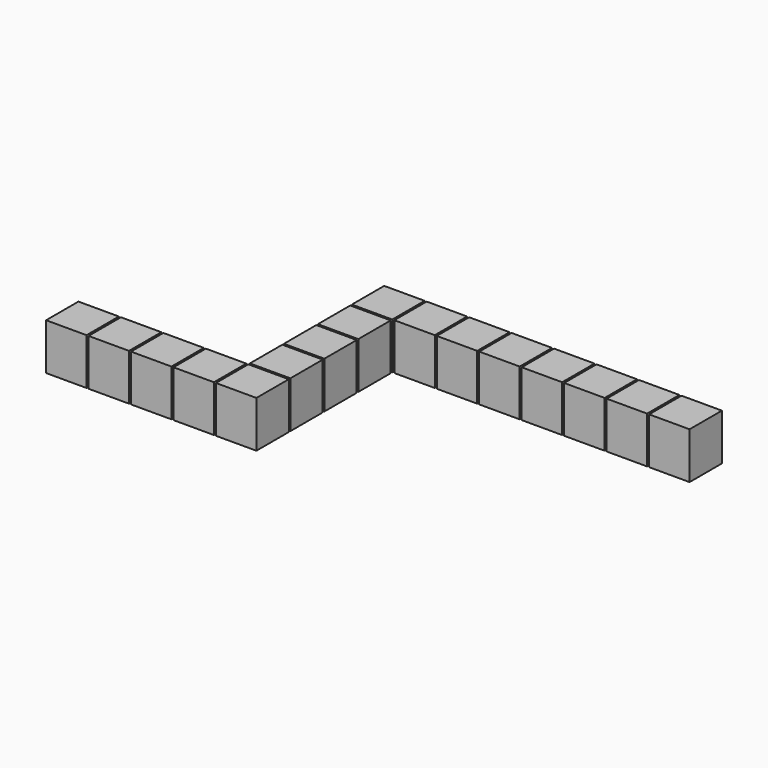
from build123d import *

# Parameters (mm, degrees)
F0_W     = 1.27
F0_H     = 22.86
F1_DEPTH = 24.13
F0_H_2   = 11.43
F0_W_2   = 22.86
F0_H_3   = 1.27
F2_DEPTH = 25.4
F3_DEPTH = 3.81
F4_SCALE = 0.5


with BuildPart() as f1:
    # F0 (on Top) → F1 (new body)
    with BuildSketch(Plane.XY):
        with Locations((26.035, 12.7)):
            Rectangle(F0_W, F0_H)
    extrude(amount=F1_DEPTH)



with BuildPart() as f1b:
    # F0 (on Top) → F1, piece 2 (new body)
    with BuildSketch(Plane.XY):
        with Locations((52.705, 12.7)):
            Rectangle(F0_W, F0_H)
    extrude(amount=F1_DEPTH)


with BuildPart() as f1c:
    # F0 (on Top) → F1, piece 3 (new body)
    with BuildSketch(Plane.XY):
        with Locations((79.375, 12.7)):
            Rectangle(F0_W, F0_H)
    extrude(amount=F1_DEPTH)


with BuildPart() as f1d:
    # F0 (on Top) → F1, piece 4 (new body)
    with BuildSketch(Plane.XY):
        with Locations((106.045, 6.985)):
            Rectangle(F0_W, F0_H_2)
        with Locations((106.045, 18.415)):
            Rectangle(F0_W, F0_H_2)
    extrude(amount=F1_DEPTH)


with BuildPart() as f1e:
    # F0 (on Top) → F1, piece 5 (new body)
    with BuildSketch(Plane.XY):
        with Locations((119.38, 26.035)):
            Rectangle(F0_W_2, F0_H_3)
    extrude(amount=F1_DEPTH)


with BuildPart() as f1f:
    # F0 (on Top) → F1, piece 6 (new body)
    with BuildSketch(Plane.XY):
        with Locations((119.38, 52.705)):
            Rectangle(F0_W_2, F0_H_3)
    extrude(amount=F1_DEPTH)


with BuildPart() as f1g:
    # F0 (on Top) → F1, piece 7 (new body)
    with BuildSketch(Plane.XY):
        with Locations((119.38, 79.375)):
            Rectangle(F0_W_2, F0_H_3)
    extrude(amount=F1_DEPTH)


with BuildPart() as f1h:
    # F0 (on Top) → F1, piece 8 (new body)
    with BuildSketch(Plane.XY):
        with Locations((119.38, 106.045)):
            Rectangle(F0_W_2, F0_H_3)
    extrude(amount=F1_DEPTH)


with BuildPart() as f1i:
    # F0 (on Top) → F1, piece 9 (new body)
    with BuildSketch(Plane.XY):
        with Locations((132.715, 119.38)):
            Rectangle(F0_W, F0_H)
    extrude(amount=F1_DEPTH)


with BuildPart() as f1j:
    # F0 (on Top) → F1, piece 10 (new body)
    with BuildSketch(Plane.XY):
        with Locations((159.385, 119.38)):
            Rectangle(F0_W, F0_H)
    extrude(amount=F1_DEPTH)


with BuildPart() as f1k:
    # F0 (on Top) → F1, piece 11 (new body)
    with BuildSketch(Plane.XY):
        with Locations((186.055, 119.38)):
            Rectangle(F0_W, F0_H)
    extrude(amount=F1_DEPTH)


with BuildPart() as f1l:
    # F0 (on Top) → F1, piece 12 (new body)
    with BuildSketch(Plane.XY):
        with Locations((212.725, 119.38)):
            Rectangle(F0_W, F0_H)
    extrude(amount=F1_DEPTH)


with BuildPart() as f1m:
    # F0 (on Top) → F1, piece 13 (new body)
    with BuildSketch(Plane.XY):
        with Locations((239.395, 119.38)):
            Rectangle(F0_W, F0_H)
    extrude(amount=F1_DEPTH)


with BuildPart() as f1n:
    # F0 (on Top) → F1, piece 14 (new body)
    with BuildSketch(Plane.XY):
        with Locations((266.065, 119.38)):
            Rectangle(F0_W, F0_H)
    extrude(amount=F1_DEPTH)


with BuildPart() as f1o:
    # F0 (on Top) → F1, piece 15 (new body)
    with BuildSketch(Plane.XY):
        with Locations((292.735, 119.38)):
            Rectangle(F0_W, F0_H)
    extrude(amount=F1_DEPTH)


with BuildPart() as f1_1:
    add(f1.part)

    add(f1b.part)  # F2 merges F1b

    add(f1c.part)  # F2 merges F1c

    add(f1d.part)  # F2 merges F1d

    add(f1e.part)  # F2 merges F1e

    add(f1f.part)  # F2 merges F1f

    add(f1g.part)  # F2 merges F1g

    add(f1h.part)  # F2 merges F1h

    add(f1i.part)  # F2 merges F1i

    add(f1j.part)  # F2 merges F1j

    add(f1k.part)  # F2 merges F1k

    add(f1l.part)  # F2 merges F1l

    add(f1m.part)  # F2 merges F1m

    add(f1n.part)  # F2 merges F1n

    add(f1o.part)  # F2 merges F1o
    # F0 (on Top) → F2 (join)
    with BuildSketch(Plane.XY):
        Polygon((0, 25.4), (0, 0), (25.4, 0), (25.4, 1.27), (25.4, 24.13), (25.4, 25.4), align=None)
        Polygon((26.67, 24.13), (26.67, 1.27), (26.67, 0), (52.07, 0), (52.07, 1.27), (52.07, 24.13), (52.07, 25.4), (26.67, 25.4), align=None)
        Polygon((53.34, 24.13), (53.34, 1.27), (53.34, 0), (78.74, 0), (78.74, 1.27), (78.74, 24.13), (78.74, 25.4), (53.34, 25.4), align=None)
        Polygon((80.01, 24.13), (80.01, 1.27), (80.01, 0), (105.41, 0), (105.41, 1.27), (105.41, 12.7), (105.41, 24.13), (105.41, 25.4), (80.01, 25.4), align=None)
        Polygon((106.68, 12.7), (106.68, 1.27), (106.68, 0), (132.08, 0), (132.08, 25.4), (130.81, 25.4), (107.95, 25.4), (106.68, 25.4), (106.68, 24.13), align=None)
        Polygon((106.68, 26.67), (107.95, 26.67), (130.81, 26.67), (132.08, 26.67), (132.08, 52.07), (130.81, 52.07), (107.95, 52.07), (106.68, 52.07), align=None)
        Polygon((106.68, 53.34), (107.95, 53.34), (130.81, 53.34), (132.08, 53.34), (132.08, 78.74), (130.81, 78.74), (107.95, 78.74), (106.68, 78.74), align=None)
        Polygon((106.68, 80.01), (107.95, 80.01), (130.81, 80.01), (132.08, 80.01), (132.08, 105.41), (130.81, 105.41), (107.95, 105.41), (106.68, 105.41), align=None)
        Polygon((106.68, 106.68), (107.95, 106.68), (130.81, 106.68), (132.08, 106.68), (132.08, 107.95), (132.08, 130.81), (132.08, 132.08), (106.68, 132.08), align=None)
        Polygon((133.35, 130.81), (133.35, 107.95), (133.35, 106.68), (158.75, 106.68), (158.75, 107.95), (158.75, 130.81), (158.75, 132.08), (133.35, 132.08), align=None)
        Polygon((160.02, 130.81), (160.02, 107.95), (160.02, 106.68), (185.42, 106.68), (185.42, 107.95), (185.42, 130.81), (185.42, 132.08), (160.02, 132.08), align=None)
        Polygon((186.69, 130.81), (186.69, 107.95), (186.69, 106.68), (212.09, 106.68), (212.09, 107.95), (212.09, 130.81), (212.09, 132.08), (186.69, 132.08), align=None)
        Polygon((213.36, 130.81), (213.36, 107.95), (213.36, 106.68), (238.76, 106.68), (238.76, 107.95), (238.76, 130.81), (238.76, 132.08), (213.36, 132.08), align=None)
        Polygon((240.03, 130.81), (240.03, 107.95), (240.03, 106.68), (265.43, 106.68), (265.43, 107.95), (265.43, 130.81), (265.43, 132.08), (240.03, 132.08), align=None)
        Polygon((266.7, 130.81), (266.7, 107.95), (266.7, 106.68), (292.1, 106.68), (292.1, 107.95), (292.1, 130.81), (292.1, 132.08), (266.7, 132.08), align=None)
        Polygon((293.37, 130.81), (293.37, 107.95), (293.37, 106.68), (318.77, 106.68), (318.77, 107.95), (318.77, 130.81), (318.77, 132.08), (293.37, 132.08), align=None)
    extrude(amount=F2_DEPTH)

    # F0 (on Top) → F3 (join)
    with BuildSketch(Plane.XY):
        Polygon((53.34, 24.13), (53.34, 1.27), (53.34, 0), (78.74, 0), (78.74, 1.27), (78.74, 24.13), (78.74, 25.4), (53.34, 25.4), align=None)
        Polygon((213.36, 130.81), (213.36, 107.95), (213.36, 106.68), (238.76, 106.68), (238.76, 107.95), (238.76, 130.81), (238.76, 132.08), (213.36, 132.08), align=None)
        Polygon((106.68, 106.68), (107.95, 106.68), (130.81, 106.68), (132.08, 106.68), (132.08, 107.95), (132.08, 130.81), (132.08, 132.08), (106.68, 132.08), align=None)
        Polygon((0, 25.4), (0, 0), (25.4, 0), (25.4, 1.27), (25.4, 24.13), (25.4, 25.4), align=None)
        Polygon((293.37, 130.81), (293.37, 107.95), (293.37, 106.68), (318.77, 106.68), (318.77, 107.95), (318.77, 130.81), (318.77, 132.08), (293.37, 132.08), align=None)
        Polygon((106.68, 80.01), (107.95, 80.01), (130.81, 80.01), (132.08, 80.01), (132.08, 105.41), (130.81, 105.41), (107.95, 105.41), (106.68, 105.41), align=None)
        Polygon((106.68, 53.34), (107.95, 53.34), (130.81, 53.34), (132.08, 53.34), (132.08, 78.74), (130.81, 78.74), (107.95, 78.74), (106.68, 78.74), align=None)
        Polygon((106.68, 26.67), (107.95, 26.67), (130.81, 26.67), (132.08, 26.67), (132.08, 52.07), (130.81, 52.07), (107.95, 52.07), (106.68, 52.07), align=None)
        Polygon((26.67, 24.13), (26.67, 1.27), (26.67, 0), (52.07, 0), (52.07, 1.27), (52.07, 24.13), (52.07, 25.4), (26.67, 25.4), align=None)
        Polygon((160.02, 130.81), (160.02, 107.95), (160.02, 106.68), (185.42, 106.68), (185.42, 107.95), (185.42, 130.81), (185.42, 132.08), (160.02, 132.08), align=None)
        Polygon((186.69, 130.81), (186.69, 107.95), (186.69, 106.68), (212.09, 106.68), (212.09, 107.95), (212.09, 130.81), (212.09, 132.08), (186.69, 132.08), align=None)
        Polygon((240.03, 130.81), (240.03, 107.95), (240.03, 106.68), (265.43, 106.68), (265.43, 107.95), (265.43, 130.81), (265.43, 132.08), (240.03, 132.08), align=None)
        Polygon((106.68, 12.7), (106.68, 1.27), (106.68, 0), (132.08, 0), (132.08, 25.4), (130.81, 25.4), (107.95, 25.4), (106.68, 25.4), (106.68, 24.13), align=None)
        Polygon((133.35, 130.81), (133.35, 107.95), (133.35, 106.68), (158.75, 106.68), (158.75, 107.95), (158.75, 130.81), (158.75, 132.08), (133.35, 132.08), align=None)
        Polygon((80.01, 24.13), (80.01, 1.27), (80.01, 0), (105.41, 0), (105.41, 1.27), (105.41, 12.7), (105.41, 24.13), (105.41, 25.4), (80.01, 25.4), align=None)
        Polygon((266.7, 130.81), (266.7, 107.95), (266.7, 106.68), (292.1, 106.68), (292.1, 107.95), (292.1, 130.81), (292.1, 132.08), (266.7, 132.08), align=None)
        with Locations((132.715, 119.38)):
            Rectangle(F0_W, F0_H)
        with Locations((119.38, 106.045)):
            Rectangle(F0_W_2, F0_H_3)
        with Locations((239.395, 119.38)):
            Rectangle(F0_W, F0_H)
        with Locations((186.055, 119.38)):
            Rectangle(F0_W, F0_H)
        with Locations((159.385, 119.38)):
            Rectangle(F0_W, F0_H)
        with Locations((52.705, 12.7)):
            Rectangle(F0_W, F0_H)
        with Locations((212.725, 119.38)):
            Rectangle(F0_W, F0_H)
        with Locations((119.38, 79.375)):
            Rectangle(F0_W_2, F0_H_3)
        with Locations((119.38, 52.705)):
            Rectangle(F0_W_2, F0_H_3)
        with Locations((119.38, 26.035)):
            Rectangle(F0_W_2, F0_H_3)
        with Locations((79.375, 12.7)):
            Rectangle(F0_W, F0_H)
        with Locations((26.035, 12.7)):
            Rectangle(F0_W, F0_H)
        with Locations((266.065, 119.38)):
            Rectangle(F0_W, F0_H)
        with Locations((106.045, 6.985)):
            Rectangle(F0_W, F0_H_2)
        with Locations((292.735, 119.38)):
            Rectangle(F0_W, F0_H)
        with Locations((106.045, 18.415)):
            Rectangle(F0_W, F0_H_2)
    extrude(amount=-F3_DEPTH)


with BuildPart() as f1_2:
    # F4: moved
    add(f1_1.part.scale(F4_SCALE))


solid = f1_2.part
